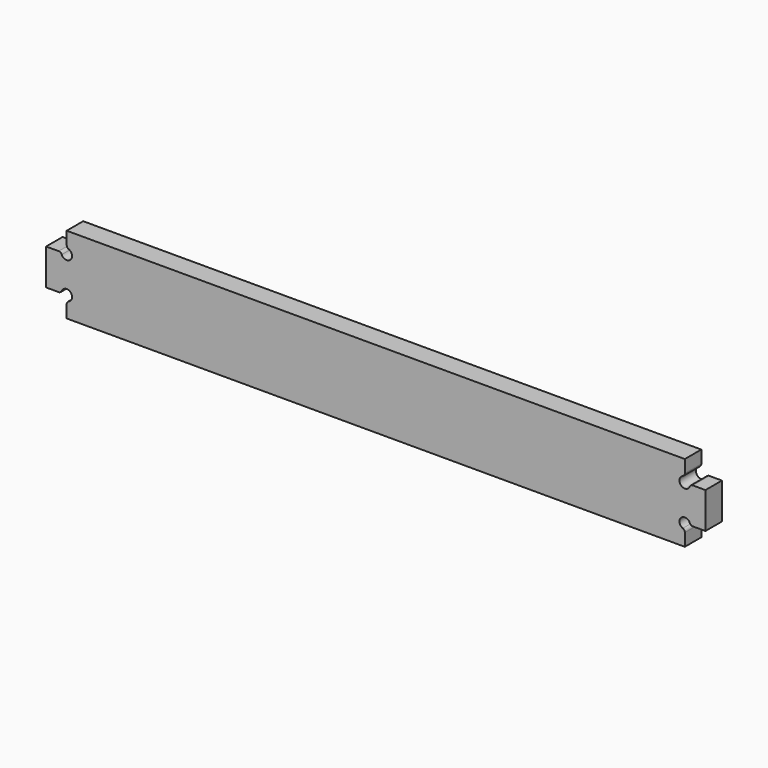
from build123d import *

# Parameters (mm, degrees)
F0_W     = 406.4
F0_H     = 47.625
F1_DEPTH = 12.7
F3_DEPTH = 25.4


with BuildPart() as f1:
    # F0 (on Front) → F1 (new body)
    with BuildSketch(Plane.XZ):
        with Locations((203.2, 23.8125)):
            Rectangle(F0_W, F0_H)
    extrude(amount=F1_DEPTH)

    # F2 (on face) → F3 (cut)
    with BuildSketch(Plane.XZ.offset(12.7)):
        with BuildLine():
            Line((12.7, 47.625), (0, 47.625))
            Line((0, 47.625), (0, 34.925))
            Line((0, 34.925), (7.768212, 34.925))
            ThreePointArc((7.768212, 34.925), (8.898713, 34.581488), (9.646988, 33.667095))
            ThreePointArc((9.646988, 33.667095), (15.034867, 32.590133), (13.957905, 37.978012))
            ThreePointArc((13.957905, 37.978012), (13.043512, 38.726287), (12.7, 39.856788))
            Line((12.7, 39.856788), (12.7, 47.625))
        make_face()
        with BuildLine():
            Line((0, 12.7), (0, 0))
            Line((0, 0), (12.7, 0))
            Line((12.7, 0), (12.7, 7.768212))
            ThreePointArc((12.7, 7.768212), (13.043512, 8.898713), (13.957905, 9.646988))
            ThreePointArc((13.957905, 9.646988), (15.034867, 15.034867), (9.646988, 13.957905))
            ThreePointArc((9.646988, 13.957905), (8.898713, 13.043512), (7.768212, 12.7))
            Line((7.768212, 12.7), (0, 12.7))
        make_face()
        with BuildLine():
            Line((406.4, 12.7), (398.631788, 12.7))
            ThreePointArc((398.631788, 12.7), (397.501287, 13.043512), (396.753012, 13.957905))
            ThreePointArc((396.753012, 13.957905), (391.365133, 15.034867), (392.442095, 9.646988))
            ThreePointArc((392.442095, 9.646988), (393.356488, 8.898713), (393.7, 7.768212))
            Line((393.7, 7.768212), (393.7, 0))
            Line((393.7, 0), (406.4, 0))
            Line((406.4, 0), (406.4, 12.7))
        make_face()
        with BuildLine():
            ThreePointArc((392.442095, 37.978012), (391.365133, 32.590133), (396.753012, 33.667095))
            ThreePointArc((396.753012, 33.667095), (397.501287, 34.581488), (398.631788, 34.925))
            Line((398.631788, 34.925), (406.4, 34.925))
            Line((406.4, 34.925), (406.4, 47.625))
            Line((406.4, 47.625), (393.7, 47.625))
            Line((393.7, 47.625), (393.7, 39.856788))
            ThreePointArc((393.7, 39.856788), (393.356488, 38.726287), (392.442095, 37.978012))
        make_face()
    extrude(amount=-F3_DEPTH, mode=Mode.SUBTRACT)


solid = f1.part
